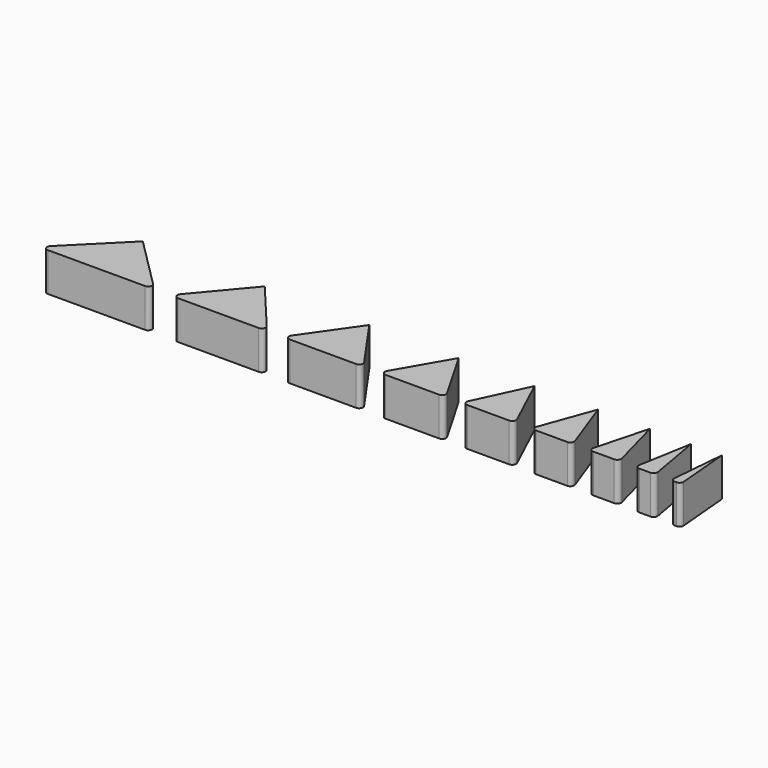
from build123d import *

# Parameters (mm, degrees)
F1_DEPTH = 50
F2_R     = 5


with BuildPart() as f1:
    # F0 (on Top) → F1 (new body)
    with BuildSketch(Plane.XY):
        Polygon((-389.986576, 75), (-464.986576, 0), (-389.986576, 0), align=None)
        Polygon((-389.986576, 75), (-389.986576, 0), (-314.986576, 0), align=None)
        Polygon((-232.054104, 0), (-232.054104, 75), (-294.986576, 0), align=None)
        Polygon((-169.121632, 0), (-232.054104, 75), (-232.054104, 0), align=None)
        Polygon((-44.090501, 0), (-96.606066, 75), (-96.606066, 0), align=None)
        Polygon((-96.606066, 0), (-96.606066, 75), (-149.121632, 0), align=None)
        Polygon((19.210769, 0), (19.210769, 75), (-24.090501, 0), align=None)
        Polygon((62.512039, 0), (19.210769, 75), (19.210769, 0), align=None)
        Polygon((117.485114, 0), (117.485114, 75), (82.512039, 0), align=None)
        Polygon((152.458188, 0), (117.485114, 75), (117.485114, 0), align=None)
        Polygon((227.053723, 0), (199.755956, 75), (199.755956, 0), align=None)
        Polygon((199.755956, 0), (199.755956, 75), (172.458188, 0), align=None)
        Polygon((287.246102, 0), (267.149913, 75), (267.149913, 0), align=None)
        Polygon((333.695149, 0), (320.470626, 75), (320.470626, 0), align=None)
        Polygon((320.470626, 0), (320.470626, 75), (307.246102, 0), align=None)
        Polygon((360.256799, 0), (360.256799, 75), (353.695149, 0), align=None)
        Polygon((366.818449, 0), (360.256799, 75), (360.256799, 0), align=None)
        Polygon((267.149913, 0), (267.149913, 75), (247.053723, 0), align=None)
    extrude(amount=F1_DEPTH)

    # F2
    f2_edges = [f1.edges().sort_by_distance(p)[0] for p in [
        (-464.986576, 0, 25),
        (-314.986576, 0, 25),
        (-294.986576, 0, 25),
        (-169.121632, 0, 25),
        (-149.121632, 0, 25),
        (-44.090501, 0, 25),
        (-24.090501, 0, 25),
        (62.512039, 0, 25),
        (82.512039, 0, 25),
        (152.458188, 0, 25),
        (172.458188, 0, 25),
        (227.053723, 0, 25),
        (247.053723, 0, 25),
        (287.246102, 0, 25),
        (307.246102, 0, 25),
        (333.695149, 0, 25),
        (353.695149, 0, 25),
        (366.818449, 0, 25),
    ]]
    fillet(f2_edges, radius=F2_R)


solid = f1.part
